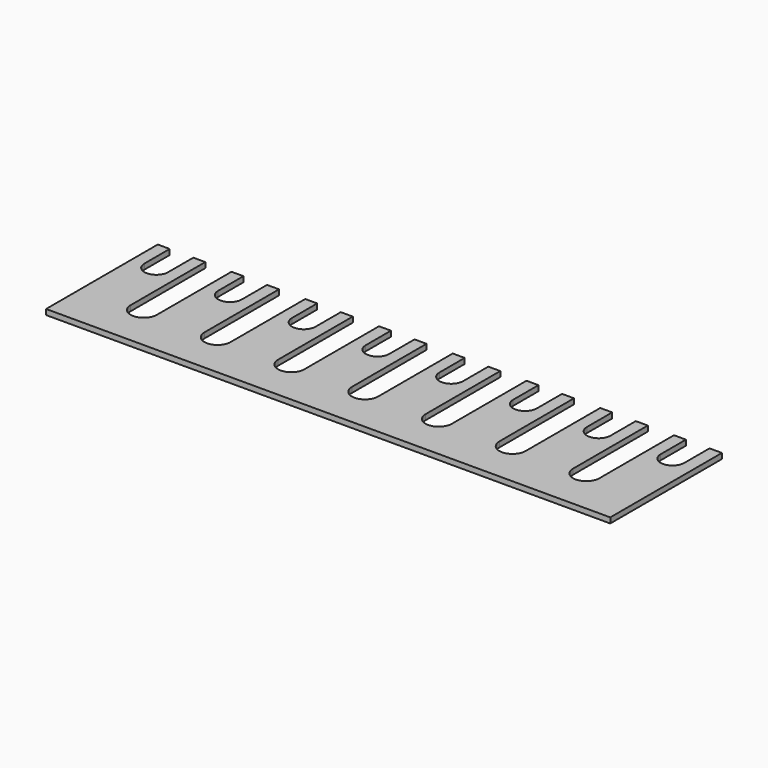
from build123d import *

# Parameters (mm, degrees)
F1_DEPTH = 0.4064


with BuildPart() as f1:
    # F0 (on Top) → F1 (new body, symmetric)
    with BuildSketch(Plane.XY):
        with BuildLine():
            Line((0, -10.5156), (42.5069, -10.5156))
            Line((42.5069, -10.5156), (42.5069, 10.5156))
            Line((42.5069, 10.5156), (40.64, 10.5156))
            Line((40.64, 10.5156), (40.64, 5.7658))
            ThreePointArc((40.64, 5.7658), (38.862, 3.9878), (37.084, 5.7658))
            Line((37.084, 5.7658), (37.084, 10.5156))
            Line((37.084, 10.5156), (35.2806, 10.5156))
            Line((35.2806, 10.5156), (35.2806, -3.53695))
            ThreePointArc((35.2806, -3.53695), (33.30575, -5.5118), (31.3309, -3.53695))
            Line((31.3309, -3.53695), (31.3309, 10.5156))
            Line((31.3309, 10.5156), (29.5275, 10.5156))
            Line((29.5275, 10.5156), (29.5275, 5.7658))
            ThreePointArc((29.5275, 5.7658), (27.7495, 3.9878), (25.9715, 5.7658))
            Line((25.9715, 5.7658), (25.9715, 10.5156))
            Line((25.9715, 10.5156), (24.1681, 10.5156))
            Line((24.1681, 10.5156), (24.1681, -3.53695))
            ThreePointArc((24.1681, -3.53695), (22.19325, -5.5118), (20.2184, -3.53695))
            Line((20.2184, -3.53695), (20.2184, 10.5156))
            Line((20.2184, 10.5156), (18.415, 10.5156))
            Line((18.415, 10.5156), (18.415, 5.7658))
            ThreePointArc((18.415, 5.7658), (16.637, 3.9878), (14.859, 5.7658))
            Line((14.859, 5.7658), (14.859, 10.5156))
            Line((14.859, 10.5156), (13.0556, 10.5156))
            Line((13.0556, 10.5156), (13.0556, -3.53695))
            ThreePointArc((13.0556, -3.53695), (11.08075, -5.5118), (9.1059, -3.53695))
            Line((9.1059, -3.53695), (9.1059, 10.5156))
            Line((9.1059, 10.5156), (7.3025, 10.5156))
            Line((7.3025, 10.5156), (7.3025, 5.7658))
            ThreePointArc((7.3025, 5.7658), (5.5245, 3.9878), (3.7465, 5.7658))
            Line((3.7465, 5.7658), (3.7465, 10.5156))
            Line((3.7465, 10.5156), (1.9431, 10.5156))
            Line((1.9431, 10.5156), (1.9431, -3.53695))
            ThreePointArc((1.9431, -3.53695), (-0.03175, -5.5118), (-2.0066, -3.53695))
            Line((-2.0066, -3.53695), (-2.0066, 10.5156))
            Line((-2.0066, 10.5156), (-3.81, 10.5156))
            Line((-3.81, 10.5156), (-3.81, 5.7658))
            ThreePointArc((-3.81, 5.7658), (-5.588, 3.9878), (-7.366, 5.7658))
            Line((-7.366, 5.7658), (-7.366, 10.5156))
            Line((-7.366, 10.5156), (-9.1694, 10.5156))
            Line((-9.1694, 10.5156), (-9.1694, -3.53695))
            ThreePointArc((-9.1694, -3.53695), (-11.14425, -5.5118), (-13.1191, -3.53695))
            Line((-13.1191, -3.53695), (-13.1191, 10.5156))
            Line((-13.1191, 10.5156), (-14.9225, 10.5156))
            Line((-14.9225, 10.5156), (-14.9225, 5.7658))
            ThreePointArc((-14.9225, 5.7658), (-16.7005, 3.9878), (-18.4785, 5.7658))
            Line((-18.4785, 5.7658), (-18.4785, 10.5156))
            Line((-18.4785, 10.5156), (-20.2819, 10.5156))
            Line((-20.2819, 10.5156), (-20.2819, -3.53695))
            ThreePointArc((-20.2819, -3.53695), (-22.25675, -5.5118), (-24.2316, -3.53695))
            Line((-24.2316, -3.53695), (-24.2316, 10.5156))
            Line((-24.2316, 10.5156), (-26.035, 10.5156))
            Line((-26.035, 10.5156), (-26.035, 5.7658))
            ThreePointArc((-26.035, 5.7658), (-27.813, 3.9878), (-29.591, 5.7658))
            Line((-29.591, 5.7658), (-29.591, 10.5156))
            Line((-29.591, 10.5156), (-31.3944, 10.5156))
            Line((-31.3944, 10.5156), (-31.3944, -3.53695))
            ThreePointArc((-31.3944, -3.53695), (-33.36925, -5.5118), (-35.3441, -3.53695))
            Line((-35.3441, -3.53695), (-35.3441, 10.5156))
            Line((-35.3441, 10.5156), (-37.1475, 10.5156))
            Line((-37.1475, 10.5156), (-37.1475, 5.7658))
            ThreePointArc((-37.1475, 5.7658), (-38.9255, 3.9878), (-40.7035, 5.7658))
            Line((-40.7035, 5.7658), (-40.7035, 10.5156))
            Line((-40.7035, 10.5156), (-42.5069, 10.5156))
            Line((-42.5069, 10.5156), (-42.5069, -10.5156))
            Line((-42.5069, -10.5156), (0, -10.5156))
        make_face()
    extrude(amount=F1_DEPTH, both=True)


solid = f1.part
